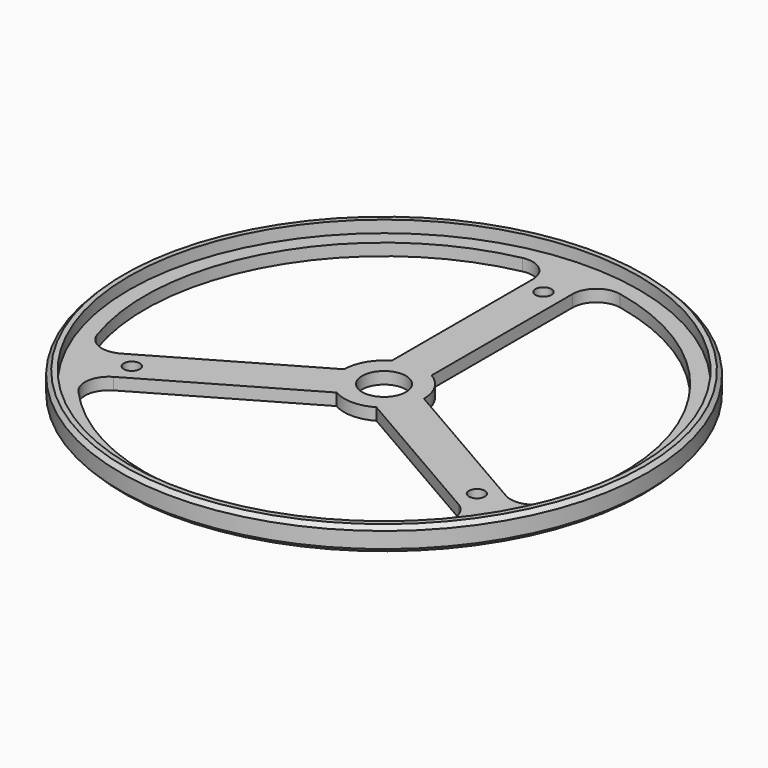
from build123d import *

# Parameters (mm, degrees)
SKETCH_R           = 66.25
PAD_DEPTH          = 6
SKETCH001_R        = 5.5
POCKET_DEPTH       = 6.001
SKETCH002_R        = 2
POCKET001_DEPTH    = 380.959664
POLARPATTERN_COUNT = 3
CHAMFER_SIZE       = 1
FILLET_R           = 6
SKETCH003_R        = 64
POCKET002_DEPTH    = 3


with BuildPart() as part:
    # Sketch → Pad (new body)
    with BuildSketch(Plane.XY):
        Circle(SKETCH_R)
    extrude(amount=PAD_DEPTH)

    # Sketch001 → Pocket (cut, through all)
    with BuildSketch(Plane.XY):
        Circle(SKETCH001_R)
    extrude(amount=POCKET_DEPTH, mode=Mode.SUBTRACT)

    # Sketch002 → Pocket001 (cut, through all)
    with BuildSketch(Plane.XY):
        with Locations((0, 50)):
            Circle(SKETCH002_R)
        with BuildLine():
            ThreePointArc((-5, 59.791304), (-51.961524, 30), (-54.280788, -25.565525))
            Line((-10, 0), (-54.280788, -25.565525))
            ThreePointArc((-5, 8.660254), (-8.660254, 5), (-10, 0))
            Line((-5, 8.660254), (-5, 59.791304))
        make_face()
    pocket001 = extrude(amount=POCKET001_DEPTH, mode=Mode.SUBTRACT)

    # PolarPattern: Pocket001 ×3 about axis
    polarpattern_axis = Axis((0, 0, 0), (0, 0, 1))
    for i in range(1, POLARPATTERN_COUNT):
        add(pocket001.rotate(polarpattern_axis, i * 360 / POLARPATTERN_COUNT), mode=Mode.SUBTRACT)

    # Chamfer
    chamfer_edges = [part.edges().sort_by_distance(p)[0] for p in [
        (-66.25, 0, 6),
        (-66.25, 0, 0),
    ]]
    chamfer(chamfer_edges, length=CHAMFER_SIZE)

    # Fillet
    fillet_edges = [part.edges().sort_by_distance(p)[0] for p in [
        (-54.280788, -25.565525, 3),
        (-5, 59.791304, 3),
        (5, 59.791304, 3),
        (54.280788, -25.565525, 3),
        (49.280788, -34.225779, 3),
        (-49.280788, -34.225779, 3),
    ]]
    fillet(fillet_edges, radius=FILLET_R)

    # Sketch003 (on Face25 of Fillet) → Pocket002 (cut)
    with BuildSketch(Plane.XY.offset(6)):
        Circle(SKETCH003_R)
    extrude(amount=-POCKET002_DEPTH, mode=Mode.SUBTRACT)


solid = part.part
